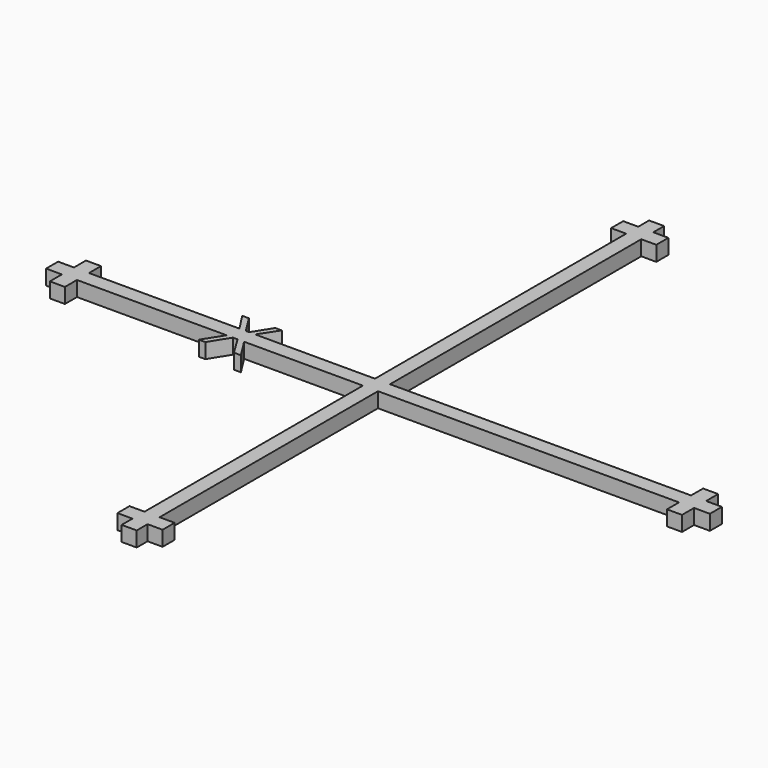
from build123d import *

# Parameters (mm, degrees)
F0_W     = 100
F0_H     = 5
F0_W_2   = 5
F0_W_3   = 5.25
F0_H_2   = 4.5
F0_H_3   = 104.3127122521
F0_H_4   = 90.6872877479
F1_DEPTH = 5


with BuildPart() as f1:
    # F0 (on Top) → F1 (new body)
    with BuildSketch(Plane.XY):
        with Locations((50, -2.5)):
            Rectangle(F0_W, F0_H)
        with Locations((102.5, -2.5)):
            Rectangle(F0_W_2, F0_H)
        with Locations((102.5, 2.5)):
            Rectangle(F0_W_2, F0_H)
        with Locations((102.5, -7.5)):
            Rectangle(F0_W_2, F0_H)
        with Locations((107.625, -2.5)):
            Rectangle(F0_W_3, F0_H)
        Polygon((-5, -5), (-5, 0), (-44.7830312261, 0), (-46.2334911863, -2.2172048721), (-44.4696663442, -5), align=None)
        with Locations((-2.5, 111.5627122521)):
            Rectangle(F0_W_2, F0_H_2)
        with Locations((-2.5, 106.8127122521)):
            Rectangle(F0_W_2, F0_H)
        with Locations((-7.5, 106.8127122521)):
            Rectangle(F0_W_2, F0_H)
        with Locations((2.5, 106.8127122521)):
            Rectangle(F0_W_2, F0_H)
        with Locations((-2.5, 52.1563561261)):
            Rectangle(F0_W_2, F0_H_3)
        with Locations((-2.5, -2.5)):
            Rectangle(F0_W_2, F0_H)
        Polygon((-5, -5), (-5, 0), (-44.7830312261, 0), (-46.2334911863, -2.2172048721), (-44.4696663442, -5), align=None)
        with Locations((50, -2.5)):
            Rectangle(F0_W, F0_H)
        with Locations((-2.5, -50.3436438739)):
            Rectangle(F0_W_2, F0_H_4)
        Polygon((-46.2334911863, -2.2172048721), (-44.7830312261, 0), (-46.8160055033, 0), (-47.3614148705, -0.862929156), (-47.9020566732, 0), (-50.0197165479, 0), (-48.535376256, -2.2862614242), (-50.2615776366, -5), (-48.1912470634, -5), (-47.4074525719, -3.7402854932), (-46.6374528634, -5), (-44.4696663442, -5), align=None)
        Polygon((-46.8160055033, 0), (-44.7830312261, 0), (-40.8048788968, 6.0810908044), (-42.9724873375, 6.0810908044), align=None)
        with Locations((102.5, 2.5)):
            Rectangle(F0_W_2, F0_H)
        with Locations((102.5, -2.5)):
            Rectangle(F0_W_2, F0_H)
        with Locations((-2.5, -98.1872877479)):
            Rectangle(F0_W_2, F0_H)
        with Locations((-7.5, -98.1872877479)):
            Rectangle(F0_W_2, F0_H)
        Polygon((-40.382866634, -11.4477640018), (-44.4696663442, -5), (-46.6374528634, -5), (-42.6962611291, -11.4477640018), align=None)
        Polygon((-47.3614148705, -0.862929156), (-46.8160055033, 0), (-47.9020566732, 0), align=None)
        with Locations((2.5, -98.1872877479)):
            Rectangle(F0_W_2, F0_H)
        with Locations((102.5, -7.5)):
            Rectangle(F0_W_2, F0_H)
        with Locations((107.625, -2.5)):
            Rectangle(F0_W_3, F0_H)
        with Locations((-2.5, -102.9372877479)):
            Rectangle(F0_W_2, F0_H_2)
        Polygon((-48.1912470634, -5), (-46.6374528634, -5), (-47.4074525719, -3.7402854932), align=None)
        Polygon((-50.0197165479, 0), (-47.9020566732, 0), (-51.7119776523, 6.0810908044), (-53.9678250207, 6.0810908044), align=None)
        Polygon((-52.2030464672, -11.4477640018), (-48.1912470634, -5), (-50.2615776366, -5), (-54.3629819576, -11.4477640018), align=None)
        Polygon((-48.535376256, -2.2862614242), (-50.0197165479, 0), (-100, 0), (-100, -5), (-50.2615776366, -5), align=None)
        with Locations((-102.5, -2.5)):
            Rectangle(F0_W_2, F0_H)
        with Locations((-102.5, 2.5)):
            Rectangle(F0_W_2, F0_H)
        with Locations((-102.5, -7.5)):
            Rectangle(F0_W_2, F0_H)
        with Locations((-107.625, -2.5)):
            Rectangle(F0_W_3, F0_H)
    extrude(amount=F1_DEPTH)


solid = f1.part
